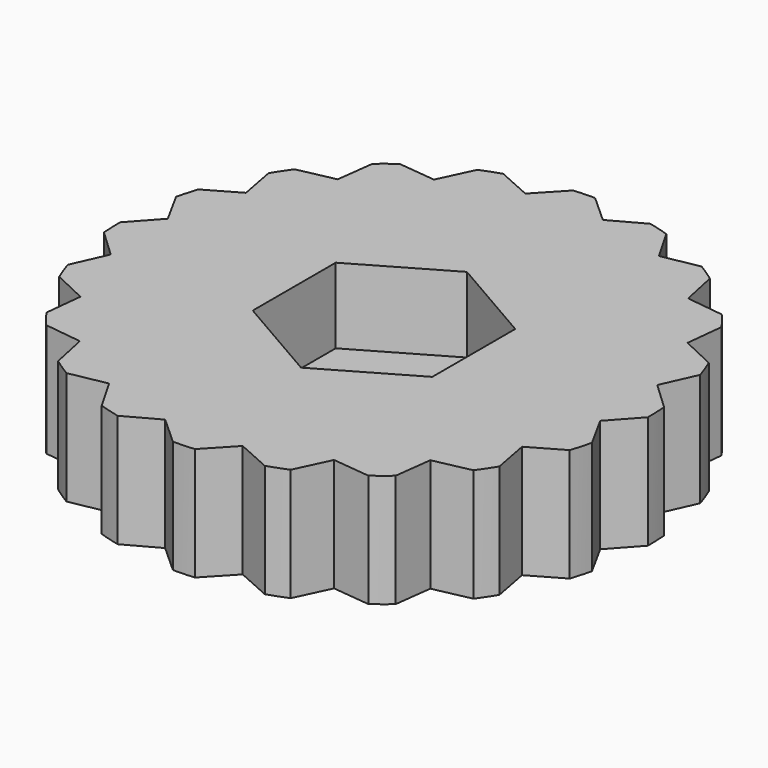
from build123d import *

# Parameters (mm, degrees)
F1_DEPTH = 2
F0_R     = 1
F2_DEPTH = 1


with BuildPart() as f1:
    # F0 (on Top) → F1 (new body)
    with BuildSketch(Plane.XY):
        with BuildLine():
            Line((6.32937, -0.741792), (7, 0))
            ThreePointArc((7, 0), (6.994284, 0.282817), (6.977147, 0.565173))
            Line((6.977147, 0.565173), (6.248815, 1.250397))
            Line((6.248815, 1.250397), (6.657396, 2.163119))
            ThreePointArc((6.657396, 2.163119), (6.564564, 2.430328), (6.461013, 2.693568))
            Line((6.461013, 2.693568), (5.556582, 3.120188))
            Line((5.556582, 3.120188), (5.663119, 4.114497))
            ThreePointArc((5.663119, 4.114497), (5.492259, 4.339941), (5.31243, 4.558299))
            Line((5.31243, 4.558299), (4.320432, 4.684553))
            Line((4.320432, 4.684553), (4.114497, 5.663119))
            ThreePointArc((4.114497, 5.663119), (3.882333, 5.824731), (3.64383, 5.976831))
            Line((3.64383, 5.976831), (2.661369, 5.790362))
            Line((2.661369, 5.790362), (2.163119, 6.657396))
            ThreePointArc((2.163119, 6.657396), (1.892377, 6.739355), (1.618546, 6.810309))
            Line((1.618546, 6.810309), (0.741792, 6.32937))
            Line((0.741792, 6.32937), (0, 7))
            ThreePointArc((0, 7), (-0.282817, 6.994284), (-0.565173, 6.977147))
            Line((-0.565173, 6.977147), (-1.250397, 6.248815))
            Line((-1.250397, 6.248815), (-2.163119, 6.657396))
            ThreePointArc((-2.163119, 6.657396), (-2.430328, 6.564564), (-2.693568, 6.461013))
            Line((-2.693568, 6.461013), (-3.120188, 5.556582))
            Line((-3.120188, 5.556582), (-4.114497, 5.663119))
            ThreePointArc((-4.114497, 5.663119), (-4.339941, 5.492259), (-4.558299, 5.31243))
            Line((-4.558299, 5.31243), (-4.684553, 4.320432))
            Line((-4.684553, 4.320432), (-5.663119, 4.114497))
            ThreePointArc((-5.663119, 4.114497), (-5.824731, 3.882333), (-5.976831, 3.64383))
            Line((-5.976831, 3.64383), (-5.790362, 2.661369))
            Line((-5.790362, 2.661369), (-6.657396, 2.163119))
            ThreePointArc((-6.657396, 2.163119), (-6.739355, 1.892377), (-6.810309, 1.618546))
            Line((-6.810309, 1.618546), (-6.32937, 0.741792))
            Line((-6.32937, 0.741792), (-7, 0))
            ThreePointArc((-7, 0), (-6.994284, -0.282817), (-6.977147, -0.565173))
            Line((-6.977147, -0.565173), (-6.248815, -1.250397))
            Line((-6.248815, -1.250397), (-6.657396, -2.163119))
            ThreePointArc((-6.657396, -2.163119), (-6.564564, -2.430328), (-6.461013, -2.693568))
            Line((-6.461013, -2.693568), (-5.556582, -3.120188))
            Line((-5.556582, -3.120188), (-5.663119, -4.114497))
            ThreePointArc((-5.663119, -4.114497), (-5.492259, -4.339941), (-5.31243, -4.558299))
            Line((-5.31243, -4.558299), (-4.320432, -4.684553))
            Line((-4.320432, -4.684553), (-4.114497, -5.663119))
            ThreePointArc((-4.114497, -5.663119), (-3.882333, -5.824731), (-3.64383, -5.976831))
            Line((-3.64383, -5.976831), (-2.661369, -5.790362))
            Line((-2.661369, -5.790362), (-2.163119, -6.657396))
            ThreePointArc((-2.163119, -6.657396), (-1.892377, -6.739355), (-1.618546, -6.810309))
            Line((-1.618546, -6.810309), (-0.741792, -6.32937))
            Line((-0.741792, -6.32937), (0, -7))
            ThreePointArc((0, -7), (0.282817, -6.994284), (0.565173, -6.977147))
            Line((0.565173, -6.977147), (1.250397, -6.248815))
            Line((1.250397, -6.248815), (2.163119, -6.657396))
            ThreePointArc((2.163119, -6.657396), (2.430328, -6.564564), (2.693568, -6.461013))
            Line((2.693568, -6.461013), (3.120188, -5.556582))
            Line((3.120188, -5.556582), (4.114497, -5.663119))
            ThreePointArc((4.114497, -5.663119), (4.339941, -5.492259), (4.558299, -5.31243))
            Line((4.558299, -5.31243), (4.684553, -4.320432))
            Line((4.684553, -4.320432), (5.663119, -4.114497))
            ThreePointArc((5.663119, -4.114497), (5.824731, -3.882333), (5.976831, -3.64383))
            Line((5.976831, -3.64383), (5.790362, -2.661369))
            Line((5.790362, -2.661369), (6.657396, -2.163119))
            ThreePointArc((6.657396, -2.163119), (6.739355, -1.892377), (6.810309, -1.618546))
            Line((6.810309, -1.618546), (6.32937, -0.741792))
        make_face()
        Polygon((2.38157, -1.375), (0, -2.75), (-2.38157, -1.375), (-2.38157, 1.375), (0, 2.75), (2.38157, 1.375), align=None, mode=Mode.SUBTRACT)
    extrude(amount=F1_DEPTH)

    # F0 (on Top) → F2 (join)
    with BuildSketch(Plane.XY):
        with BuildLine():
            Line((6.32937, -0.741792), (7, 0))
            ThreePointArc((7, 0), (6.994284, 0.282817), (6.977147, 0.565173))
            Line((6.977147, 0.565173), (6.248815, 1.250397))
            Line((6.248815, 1.250397), (6.657396, 2.163119))
            ThreePointArc((6.657396, 2.163119), (6.564564, 2.430328), (6.461013, 2.693568))
            Line((6.461013, 2.693568), (5.556582, 3.120188))
            Line((5.556582, 3.120188), (5.663119, 4.114497))
            ThreePointArc((5.663119, 4.114497), (5.492259, 4.339941), (5.31243, 4.558299))
            Line((5.31243, 4.558299), (4.320432, 4.684553))
            Line((4.320432, 4.684553), (4.114497, 5.663119))
            ThreePointArc((4.114497, 5.663119), (3.882333, 5.824731), (3.64383, 5.976831))
            Line((3.64383, 5.976831), (2.661369, 5.790362))
            Line((2.661369, 5.790362), (2.163119, 6.657396))
            ThreePointArc((2.163119, 6.657396), (1.892377, 6.739355), (1.618546, 6.810309))
            Line((1.618546, 6.810309), (0.741792, 6.32937))
            Line((0.741792, 6.32937), (0, 7))
            ThreePointArc((0, 7), (-0.282817, 6.994284), (-0.565173, 6.977147))
            Line((-0.565173, 6.977147), (-1.250397, 6.248815))
            Line((-1.250397, 6.248815), (-2.163119, 6.657396))
            ThreePointArc((-2.163119, 6.657396), (-2.430328, 6.564564), (-2.693568, 6.461013))
            Line((-2.693568, 6.461013), (-3.120188, 5.556582))
            Line((-3.120188, 5.556582), (-4.114497, 5.663119))
            ThreePointArc((-4.114497, 5.663119), (-4.339941, 5.492259), (-4.558299, 5.31243))
            Line((-4.558299, 5.31243), (-4.684553, 4.320432))
            Line((-4.684553, 4.320432), (-5.663119, 4.114497))
            ThreePointArc((-5.663119, 4.114497), (-5.824731, 3.882333), (-5.976831, 3.64383))
            Line((-5.976831, 3.64383), (-5.790362, 2.661369))
            Line((-5.790362, 2.661369), (-6.657396, 2.163119))
            ThreePointArc((-6.657396, 2.163119), (-6.739355, 1.892377), (-6.810309, 1.618546))
            Line((-6.810309, 1.618546), (-6.32937, 0.741792))
            Line((-6.32937, 0.741792), (-7, 0))
            ThreePointArc((-7, 0), (-6.994284, -0.282817), (-6.977147, -0.565173))
            Line((-6.977147, -0.565173), (-6.248815, -1.250397))
            Line((-6.248815, -1.250397), (-6.657396, -2.163119))
            ThreePointArc((-6.657396, -2.163119), (-6.564564, -2.430328), (-6.461013, -2.693568))
            Line((-6.461013, -2.693568), (-5.556582, -3.120188))
            Line((-5.556582, -3.120188), (-5.663119, -4.114497))
            ThreePointArc((-5.663119, -4.114497), (-5.492259, -4.339941), (-5.31243, -4.558299))
            Line((-5.31243, -4.558299), (-4.320432, -4.684553))
            Line((-4.320432, -4.684553), (-4.114497, -5.663119))
            ThreePointArc((-4.114497, -5.663119), (-3.882333, -5.824731), (-3.64383, -5.976831))
            Line((-3.64383, -5.976831), (-2.661369, -5.790362))
            Line((-2.661369, -5.790362), (-2.163119, -6.657396))
            ThreePointArc((-2.163119, -6.657396), (-1.892377, -6.739355), (-1.618546, -6.810309))
            Line((-1.618546, -6.810309), (-0.741792, -6.32937))
            Line((-0.741792, -6.32937), (0, -7))
            ThreePointArc((0, -7), (0.282817, -6.994284), (0.565173, -6.977147))
            Line((0.565173, -6.977147), (1.250397, -6.248815))
            Line((1.250397, -6.248815), (2.163119, -6.657396))
            ThreePointArc((2.163119, -6.657396), (2.430328, -6.564564), (2.693568, -6.461013))
            Line((2.693568, -6.461013), (3.120188, -5.556582))
            Line((3.120188, -5.556582), (4.114497, -5.663119))
            ThreePointArc((4.114497, -5.663119), (4.339941, -5.492259), (4.558299, -5.31243))
            Line((4.558299, -5.31243), (4.684553, -4.320432))
            Line((4.684553, -4.320432), (5.663119, -4.114497))
            ThreePointArc((5.663119, -4.114497), (5.824731, -3.882333), (5.976831, -3.64383))
            Line((5.976831, -3.64383), (5.790362, -2.661369))
            Line((5.790362, -2.661369), (6.657396, -2.163119))
            ThreePointArc((6.657396, -2.163119), (6.739355, -1.892377), (6.810309, -1.618546))
            Line((6.810309, -1.618546), (6.32937, -0.741792))
        make_face()
        Polygon((2.38157, -1.375), (0, -2.75), (-2.38157, -1.375), (-2.38157, 1.375), (0, 2.75), (2.38157, 1.375), align=None, mode=Mode.SUBTRACT)
        Polygon((-2.38157, -1.375), (0, -2.75), (2.38157, -1.375), (2.38157, 1.375), (0, 2.75), (-2.38157, 1.375), align=None)
        Circle(F0_R, mode=Mode.SUBTRACT)
    extrude(amount=-F2_DEPTH)


solid = f1.part
